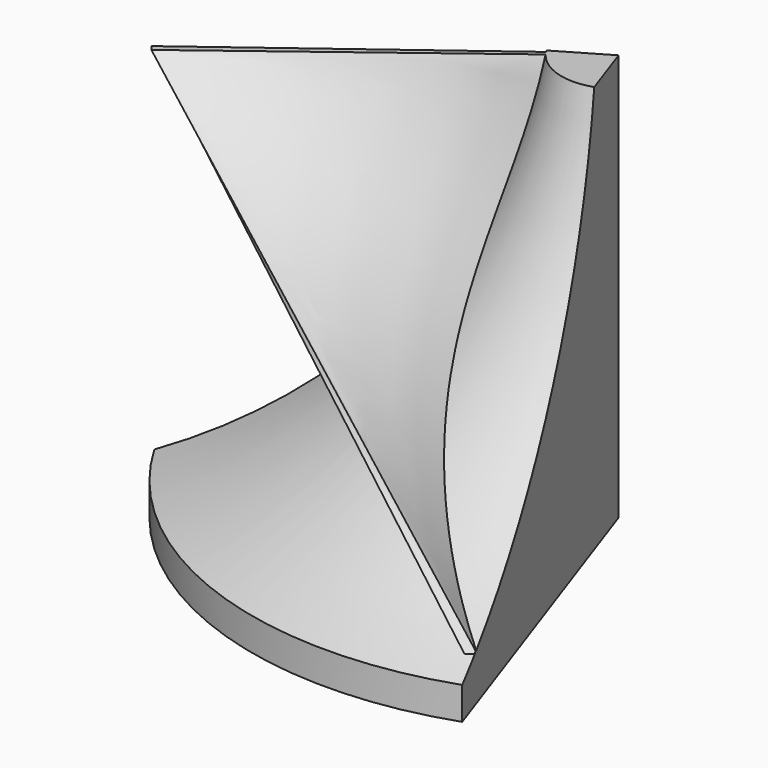
from build123d import *

# Parameters (mm, degrees)
F7_DEPTH = 66.294


with BuildPart() as f1:
    # F0 (on Front) → F1 (revolve)
    with BuildSketch(Plane.XZ):
        with BuildLine():
            Line((0, 50), (0, 0))
            Line((0, 0), (45, 0))
            Line((45, 0), (45, 4))
            ThreePointArc((45, 4), (20.032482, 22.070311), (7, 50))
            Line((7, 50), (0, 50))
        make_face()
    revolve(axis=Axis((0, 0, 25), (0, 0, 1)))

    # F3 (on offset) → F5 section 0
    with BuildSketch(Plane(origin=(0, 0, 0), x_dir=(1, 0, 0), z_dir=(0, 0, -1))):
        with BuildLine():
            ThreePointArc((18.70692, 41.144319), (5.441077, 22.350987), (0, 0))
            Line((0, 0), (1.5, 0))
            ThreePointArc((1.5, 0), (7.30349, 21.810899), (20.034988, 40.447013))
            Line((20.034988, 40.447013), (18.70692, 41.144319))
        make_face()
    # F4 (on face) → F5 section 1
    with BuildSketch(Plane.XY.offset(50)):
        with BuildLine():
            Line((-35.687151, -27.123697), (-5.573025, -4.235728))
            ThreePointArc((-5.573025, -4.235728), (-5.72933, -4.021788), (-5.877426, -3.802087))
            Line((-5.877426, -3.802087), (-36.166668, -26.483335))
            Line((-36.166668, -26.483335), (-35.687151, -27.123697))
        make_face()
    loft()

    # F6 (on Top) → F7 (cut)
    with BuildSketch(Plane.XY):
        Polygon((-48.766669, -28.583335), (0, 0), (24.18991, -69.506563), (50.104998, -75.30845), (58.227632, 43.516669), (31.925756, 47.691509), (-48.766669, 43.516669), align=None)
    extrude(amount=F7_DEPTH, mode=Mode.SUBTRACT)


solid = f1.part
